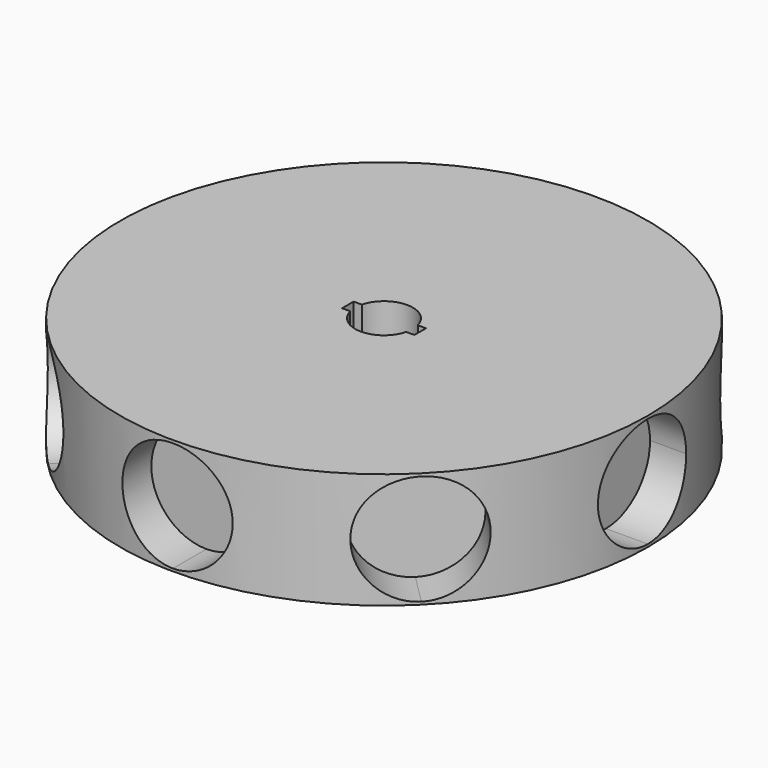
from build123d import *

# Parameters (mm, degrees)
F0_R          = 36.5
F1_DEPTH      = 16
F5_DEPTH      = 6.3
F5_DEPTH_BACK = 2
F6_COUNT      = 8


with BuildPart() as f1:
    # F0 (on Top) → F1 (new body)
    with BuildSketch(Plane.XY):
        Circle(F0_R)
        with BuildLine():
            ThreePointArc((-3.872983, 1), (0, 4), (3.872983, 1))
            Line((3.872983, 1), (5, 1))
            Line((5, 1), (5, -1))
            Line((5, -1), (3.872983, -1))
            ThreePointArc((3.872983, -1), (0, -4), (-3.872983, -1))
            Line((-3.872983, -1), (-5, -1))
            Line((-5, -1), (-5, 1))
            Line((-5, 1), (-3.872983, 1))
        make_face(mode=Mode.SUBTRACT)
    extrude(amount=F1_DEPTH)


with BuildPart() as f5:
    # F3 (on offset) → F5 (new body, two sides)
    with BuildSketch(Plane.XZ.offset(37)) as f5_sk:
        with BuildLine():
            ThreePointArc((0, 0.375), (5.391689, 2.608311), (7.625, 8))
            ThreePointArc((7.625, 8), (-5.391689, 13.391689), (0, 0.375))
        make_face()
    extrude(amount=-F5_DEPTH)
    extrude(f5_sk.sketch, amount=-F5_DEPTH_BACK)


with BuildPart() as f6_1:
    # F6: instance of F5
    add(f5.part.rotate(Axis((0, 0, 8), (0, 0, 1)), 1 * 360 / F6_COUNT))


with BuildPart() as f6_2:
    # F6: instance of F5
    add(f5.part.rotate(Axis((0, 0, 8), (0, 0, 1)), 2 * 360 / F6_COUNT))


with BuildPart() as f6_3:
    # F6: instance of F5
    add(f5.part.rotate(Axis((0, 0, 8), (0, 0, 1)), 3 * 360 / F6_COUNT))


with BuildPart() as f6_4:
    # F6: instance of F5
    add(f5.part.rotate(Axis((0, 0, 8), (0, 0, 1)), 4 * 360 / F6_COUNT))


with BuildPart() as f6_5:
    # F6: instance of F5
    add(f5.part.rotate(Axis((0, 0, 8), (0, 0, 1)), 5 * 360 / F6_COUNT))


with BuildPart() as f6_6:
    # F6: instance of F5
    add(f5.part.rotate(Axis((0, 0, 8), (0, 0, 1)), 6 * 360 / F6_COUNT))


with BuildPart() as f6_7:
    # F6: instance of F5
    add(f5.part.rotate(Axis((0, 0, 8), (0, 0, 1)), 7 * 360 / F6_COUNT))


with BuildPart() as f1_1:
    add(f1.part)

    # F7: cut F5, F6_1, F6_2, F6_3, F6_4, F6_5, F6_6, F6_7
    add(f5.part, mode=Mode.SUBTRACT)
    add(f6_1.part, mode=Mode.SUBTRACT)
    add(f6_2.part, mode=Mode.SUBTRACT)
    add(f6_3.part, mode=Mode.SUBTRACT)
    add(f6_4.part, mode=Mode.SUBTRACT)
    add(f6_5.part, mode=Mode.SUBTRACT)
    add(f6_6.part, mode=Mode.SUBTRACT)
    add(f6_7.part, mode=Mode.SUBTRACT)


solid = f1_1.part
